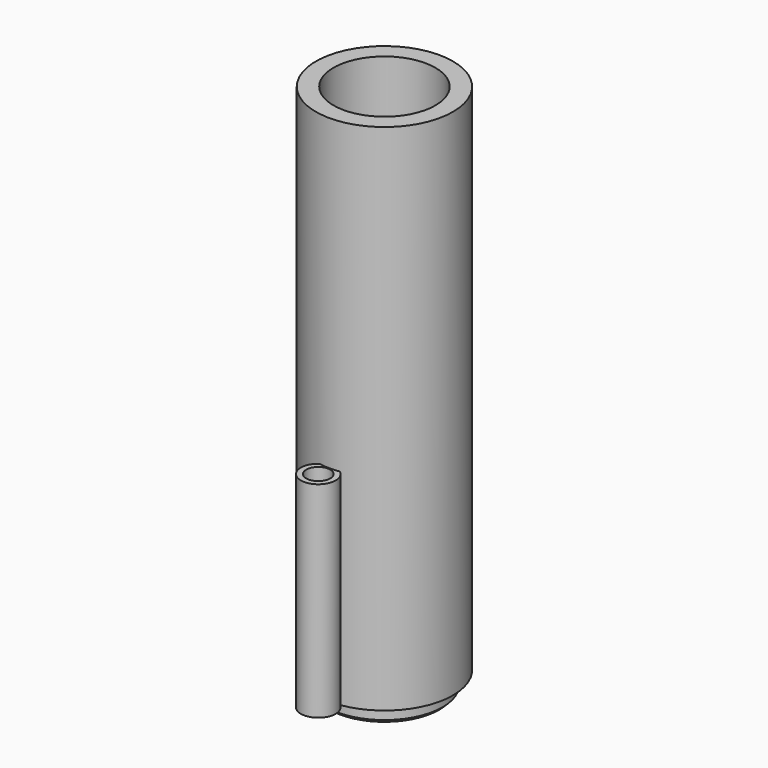
from build123d import *

# Parameters (mm, degrees)
F0_R        = 170
F0_R_2      = 148.8565935533
F1_DEPTH    = 50
F1_FACE_R   = 170
F1_FACE_R_2 = 148.8565935533
F2_R        = 200
F2_R_2      = 170
F3_DEPTH    = 1500
F4_SIZE     = 10
F6_DEPTH    = 600
F7_R        = 35
F8_DEPTH    = 600


with BuildPart() as f1:
    # F0 (on Top) → F1 (new body)
    with BuildSketch(Plane.XY):
        Circle(F0_R)
        Circle(F0_R_2, mode=Mode.SUBTRACT)
    extrude(amount=F1_DEPTH)

    # F1_face (on face) + F2 (on face) → F3 (join)
    with BuildSketch(Plane.XY.offset(50)):
        Circle(F1_FACE_R)
        Circle(F1_FACE_R_2, mode=Mode.SUBTRACT)
    with BuildSketch(Plane.XY.offset(50)):
        Circle(F2_R)
        Circle(F2_R_2, mode=Mode.SUBTRACT)
    extrude(amount=F3_DEPTH)

    # F4
    f4_edges = [f1.edges().sort_by_distance(p)[0] for p in [
        (-170, 0, 0),
        (-148.856594, 0, 0),
    ]]
    chamfer(f4_edges, length=F4_SIZE)

    # F5 (on face) → F6 (join)
    with BuildSketch(Plane(origin=(0, 0, 50), x_dir=(1, 0, 0), z_dir=(0, 0, -1))):
        with BuildLine():
            ThreePointArc((-32.6282500588, 197.3205445414), (-2.1909388027, 199.9879991079), (28.2975059651, 197.9880076069))
            ThreePointArc((28.2975059651, 197.9880076069), (-3.1678765377, 289.1624765686), (-32.6282500588, 197.3205445414))
        make_face()
    extrude(amount=-F6_DEPTH)

    # F7 (on face) → F8 (cut)
    with BuildSketch(Plane(origin=(0, 0, 50), x_dir=(1, 0, 0), z_dir=(0, 0, -1))):
        with Locations((-2.6110750469, 238.3378638878)):
            Circle(F7_R)
    extrude(amount=-F8_DEPTH, mode=Mode.SUBTRACT)


solid = f1.part
